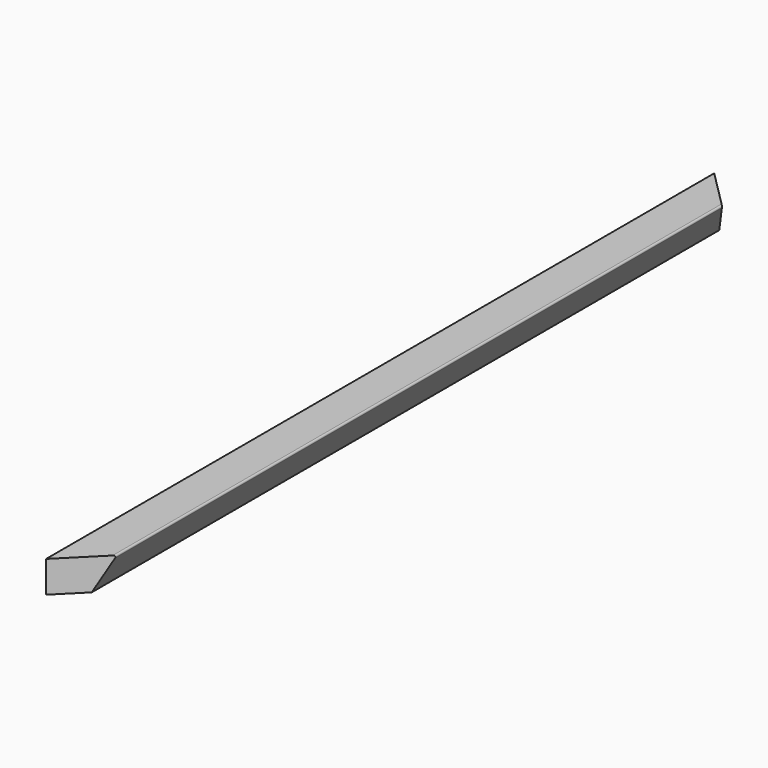
from build123d import *

# Parameters (mm, degrees)
F1_DEPTH = 1060
F2_R     = 2
F4_DEPTH = 40.001


with BuildPart() as f1:
    # F0 (on Front) → F1 (new body)
    with BuildSketch(Plane.XZ):
        Polygon((0, 40), (0, 0), (32.190853, 0), (50, 40), align=None)
    extrude(amount=F1_DEPTH)

    # F2
    f2_edges = [f1.edges().sort_by_distance(p)[0] for p in [
        (50, -530, 40),
    ]]
    fillet(f2_edges, radius=F2_R)

    # F3 (on face) → F4 (cut, through all)
    with BuildSketch(Plane.XY.offset(40)):
        Polygon((49.361777, 0), (0, 0), (49.361777, -49.361777), align=None)
        Polygon((60.1357, -999.8643), (0, -1060), (60.1357, -1060), align=None)
    extrude(amount=-F4_DEPTH, mode=Mode.SUBTRACT)


solid = f1.part
